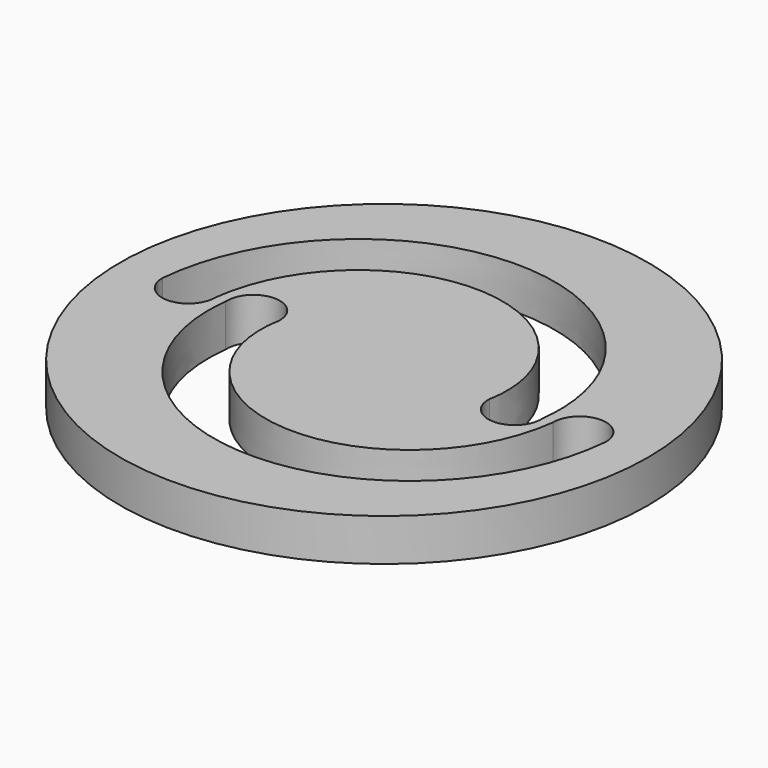
from build123d import *

# Parameters (mm, degrees)
SKETCH_R        = 25
PAD_DEPTH       = 4
POCKET_DEPTH    = 5
POCKET001_DEPTH = 5


with BuildPart() as part:
    # Sketch → Pad (new body)
    with BuildSketch(Plane.XY):
        Circle(SKETCH_R)
    extrude(amount=PAD_DEPTH)

    # Sketch006 → Pocket (cut)
    with BuildSketch(Plane(origin=(0, 0, 0), x_dir=(-1, 0, 0), z_dir=(0, 0, 1))):
        with BuildLine():
            ThreePointArc((10, 0), (12.5, -2.660022), (15, 0))
            add(Edge.make_bspline(
                [(15, 0), (15.545455, 4.28399), (14.745053, 8.910699), (12.419355, 13.410338), (8.573372, 17.219141), (3.449426, 19.762244), (-2.463902, 20.569387), (-8.48908, 19.39714), (-13.890489, 16.306895), (-18.024894, 11.652452), (-20.454545, 5.997586), (-21, 0)],
                knots=[0, 0, 0, 0, 0, 0, 0, 0, 0, 0, 0, 0, 3.296908, 3.296908, 3.296908, 3.296908, 3.296908, 3.296908, 3.296908, 3.296908, 3.296908, 3.296908, 3.296908, 3.296908], degree=11))
            ThreePointArc((-21, 0), (-18.5, -2.530386), (-16, 0))
            add(Edge.make_bspline(
                [(10, 0), (10.545455, 2.855993), (10.193672, 6.054706), (8.76521, 9.282944), (6.203587, 12.133546), (2.628131, 14.160628), (-1.642606, 14.967771), (-6.119295, 14.311546), (-10.236344, 12.179501), (-13.473513, 8.796459), (-15.454545, 4.569589), (-16, 0)],
                knots=[0, 0, 0, 0, 0, 0, 0, 0, 0, 0, 0, 0, 3.296908, 3.296908, 3.296908, 3.296908, 3.296908, 3.296908, 3.296908, 3.296908, 3.296908, 3.296908, 3.296908, 3.296908], degree=11))
        make_face()
    extrude(amount=POCKET_DEPTH, mode=Mode.SUBTRACT)

    # Sketch007 → Pocket001 (cut)
    with BuildSketch(Plane.XY):
        with BuildLine():
            ThreePointArc((10, 0), (12.5, -2.660022), (15, 0))
            add(Edge.make_bspline(
                [(15, 0), (15.545455, 4.28399), (14.745053, 8.910699), (12.419355, 13.410338), (8.573372, 17.219141), (3.449426, 19.762244), (-2.463902, 20.569387), (-8.48908, 19.39714), (-13.890489, 16.306895), (-18.024894, 11.652452), (-20.454545, 5.997586), (-21, 0)],
                knots=[0, 0, 0, 0, 0, 0, 0, 0, 0, 0, 0, 0, 3.296908, 3.296908, 3.296908, 3.296908, 3.296908, 3.296908, 3.296908, 3.296908, 3.296908, 3.296908, 3.296908, 3.296908], degree=11))
            ThreePointArc((-21, 0), (-18.5, -2.530386), (-16, 0))
            add(Edge.make_bspline(
                [(10, 0), (10.545455, 2.855993), (10.193672, 6.054706), (8.76521, 9.282944), (6.203587, 12.133546), (2.628131, 14.160628), (-1.642606, 14.967771), (-6.119295, 14.311546), (-10.236344, 12.179501), (-13.473513, 8.796459), (-15.454545, 4.569589), (-16, 0)],
                knots=[0, 0, 0, 0, 0, 0, 0, 0, 0, 0, 0, 0, 3.296908, 3.296908, 3.296908, 3.296908, 3.296908, 3.296908, 3.296908, 3.296908, 3.296908, 3.296908, 3.296908, 3.296908], degree=11))
        make_face()
    extrude(amount=POCKET001_DEPTH, mode=Mode.SUBTRACT)


solid = part.part
